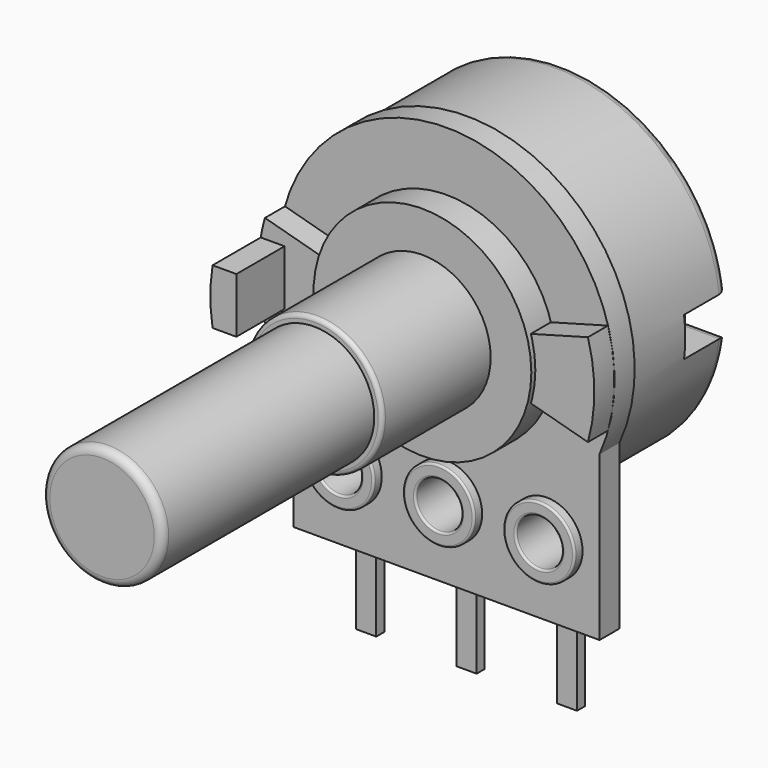
from build123d import *

# Parameters (mm, degrees)
PAD001_DEPTH    = 1.25
SKETCH010_R     = 1.75
POCKET001_DEPTH = 5
SKETCH003_R     = 1.15
PAD002_DEPTH    = 0.5
SKETCH004_R     = 1.775
SKETCH004_R_2   = 1.15
PAD003_DEPTH    = 1.75
FILLET001_R     = 0.1
SKETCH005_R     = 1.15
PAD004_DEPTH    = 0.5
SKETCH006_R     = 1.775
SKETCH006_R_2   = 1.15
PAD005_DEPTH    = 1.75
FILLET002_R     = 0.1
SKETCH007_R     = 1.15
PAD006_DEPTH    = 0.5
SKETCH008_R     = 1.775
SKETCH008_R_2   = 1.15
PAD007_DEPTH    = 1.75
FILLET003_R     = 0.1
SKETCH009_W     = 14
SKETCH009_H     = 2
PAD008_DEPTH    = 3
SKETCH_R        = 8.25
PAD_DEPTH       = 6
POCKET_DEPTH    = 2.7
FILLET_R        = 0.5
SKETCH011_R     = 3.4
PAD009_DEPTH    = 8.25
FILLET004_R     = 0.2
SKETCH012_R     = 3
PAD010_DEPTH    = 13.2
FILLET005_R     = 0.4
SKETCH013_R     = 5.425
PAD011_DEPTH    = 1.5
PAD012_DEPTH    = 1.25
PAD013_DEPTH    = 3


with BuildPart() as pcb:
    # Sketch002 → Pad001 (new body)
    with BuildSketch(Plane.XZ):
        with BuildLine():
            Line((-7.625, -3.464102), (-7.625, -11.625))
            Line((-7.625, -11.625), (7.625, -11.625))
            Line((7.625, -11.625), (7.625, -3.464102))
            ThreePointArc((7.625, -3.464102), (0, 8.375), (-7.625, -3.464102))
        make_face()
    extrude(amount=PAD001_DEPTH)

    # Sketch010 (on Face6 of Pad001) → Pocket001 (cut)
    with BuildSketch(Plane.XZ.offset(1.25)):
        with Locations((-4.995, -7.995)):
            Circle(SKETCH010_R)
        with Locations((0, -7.995)):
            Circle(SKETCH010_R)
        with Locations((4.995, -7.995)):
            Circle(SKETCH010_R)
    extrude(amount=-POCKET001_DEPTH, mode=Mode.SUBTRACT)


with BuildPart() as body002:
    # Sketch003 → Pad002 (new body)
    with BuildSketch(Plane.XZ):
        with BuildLine():
            Line((1.775, 0), (1.775, -4.225))
            Line((1.775, -4.225), (0.5, -3.925))
            Line((0.5, -3.925), (0.5, -7.925))
            Line((0.5, -7.925), (-0.5, -7.925))
            Line((-0.5, -7.925), (-0.5, -3.925))
            Line((-0.5, -3.925), (-1.775, -4.225))
            Line((-1.775, -4.225), (-1.775, 0))
            ThreePointArc((1.775, 0), (0, 1.775), (-1.775, 0))
        make_face()
        Circle(SKETCH003_R, mode=Mode.SUBTRACT)
    extrude(amount=PAD002_DEPTH)

    # Sketch004 (on Face11 of Pad002) → Pad003 (join)
    with BuildSketch(Plane.XZ.offset(0.5)):
        Circle(SKETCH004_R)
        Circle(SKETCH004_R_2, mode=Mode.SUBTRACT)
    extrude(amount=PAD003_DEPTH)

    # Fillet001
    fillet001_edges = [body002.edges().sort_by_distance(p)[0] for p in [
        (-1.775, -2.25, 0),
        (-1.15, -2.25, 0),
    ]]
    fillet(fillet001_edges, radius=FILLET001_R)


with BuildPart() as body002_1:
    # Body002 placement: moved
    add(body002.part.moved(Location((-5, 0.5, -8))))


with BuildPart() as body003:
    # Sketch005 → Pad004 (new body)
    with BuildSketch(Plane.XZ):
        with BuildLine():
            Line((1.775, 0), (1.775, -4.225))
            Line((1.775, -4.225), (0.5, -3.925))
            Line((0.5, -3.925), (0.5, -7.925))
            Line((0.5, -7.925), (-0.5, -7.925))
            Line((-0.5, -7.925), (-0.5, -3.925))
            Line((-0.5, -3.925), (-1.775, -4.225))
            Line((-1.775, -4.225), (-1.775, 0))
            ThreePointArc((1.775, 0), (0, 1.775), (-1.775, 0))
        make_face()
        Circle(SKETCH005_R, mode=Mode.SUBTRACT)
    extrude(amount=PAD004_DEPTH)

    # Sketch006 (on Face11 of Pad004) → Pad005 (join)
    with BuildSketch(Plane.XZ.offset(0.5)):
        Circle(SKETCH006_R)
        Circle(SKETCH006_R_2, mode=Mode.SUBTRACT)
    extrude(amount=PAD005_DEPTH)

    # Fillet002
    fillet002_edges = [body003.edges().sort_by_distance(p)[0] for p in [
        (-1.775, -2.25, 0),
        (-1.15, -2.25, 0),
    ]]
    fillet(fillet002_edges, radius=FILLET002_R)


with BuildPart() as body003_1:
    # Body003 placement: moved
    add(body003.part.moved(Location((0, 0.5, -8))))


with BuildPart() as body004:
    # Sketch007 → Pad006 (new body)
    with BuildSketch(Plane.XZ):
        with BuildLine():
            Line((1.775, 0), (1.775, -4.225))
            Line((1.775, -4.225), (0.5, -3.925))
            Line((0.5, -3.925), (0.5, -7.925))
            Line((0.5, -7.925), (-0.5, -7.925))
            Line((-0.5, -7.925), (-0.5, -3.925))
            Line((-0.5, -3.925), (-1.775, -4.225))
            Line((-1.775, -4.225), (-1.775, 0))
            ThreePointArc((1.775, 0), (0, 1.775), (-1.775, 0))
        make_face()
        Circle(SKETCH007_R, mode=Mode.SUBTRACT)
    extrude(amount=PAD006_DEPTH)

    # Sketch008 (on Face11 of Pad006) → Pad007 (join)
    with BuildSketch(Plane.XZ.offset(0.5)):
        Circle(SKETCH008_R)
        Circle(SKETCH008_R_2, mode=Mode.SUBTRACT)
    extrude(amount=PAD007_DEPTH)

    # Fillet003
    fillet003_edges = [body004.edges().sort_by_distance(p)[0] for p in [
        (-1.775, -2.25, 0),
        (-1.15, -2.25, 0),
    ]]
    fillet(fillet003_edges, radius=FILLET003_R)


with BuildPart() as body004_1:
    # Body004 placement: moved
    add(body004.part.moved(Location((5, 0.5, -8))))


with BuildPart() as hole:
    # Sketch009 → Pad008 (new body)
    with BuildSketch(Plane.XY):
        with Locations((0, 1)):
            Rectangle(SKETCH009_W, SKETCH009_H)
    extrude(amount=PAD008_DEPTH)


with BuildPart() as hole_1:
    # Body005 placement: moved
    add(hole.part.moved(Location((0, 0, -9))))


with BuildPart() as metal_case:
    # Sketch → Pad (new body)
    with BuildSketch(Plane.XZ):
        Circle(SKETCH_R)
    extrude(amount=PAD_DEPTH)

    # Sketch001 (on Face2 of Pad) → Pocket (cut)
    with BuildSketch(Plane(origin=(0, 0, 0), x_dir=(1, 0, 0), z_dir=(0, 1, 0))):
        Polygon((6.35, 0.975), (8.25, 0.975), (8.25, -0.975), (6.35, -0.975), (6.35, 0), align=None)
    extrude(amount=-POCKET_DEPTH, mode=Mode.SUBTRACT)

    # Fillet
    fillet_edges = [metal_case.edges().sort_by_distance(p)[0] for p in [
        (7.271092, 0, 0.975),
        (6.35, 0, 0.4875),
        (6.35, 0, -0.4875),
        (7.271092, 0, -0.975),
        (-8.25, 0, 0),
    ]]
    fillet(fillet_edges, radius=FILLET_R)


with BuildPart() as metal_case_1:
    # Body placement: moved
    add(metal_case.part.moved(Location((0, 6, 0))))

    # Cut: cut Hole
    add(hole_1.part, mode=Mode.SUBTRACT)


with BuildPart() as shaft:
    # Sketch011 → Pad009 (new body)
    with BuildSketch(Plane.XZ):
        Circle(SKETCH011_R)
    extrude(amount=PAD009_DEPTH)

    # Fillet004
    fillet004_edges = [shaft.edges().sort_by_distance(p)[0] for p in [
        (-3.4, -8.25, 0),
    ]]
    fillet(fillet004_edges, radius=FILLET004_R)

    # Sketch012 (on Face4 of Fillet004) → Pad010 (join)
    with BuildSketch(Plane.XZ.offset(8.25)):
        Circle(SKETCH012_R)
    extrude(amount=PAD010_DEPTH)

    # Fillet005
    fillet005_edges = [shaft.edges().sort_by_distance(p)[0] for p in [
        (-3, -21.45, 0),
    ]]
    fillet(fillet005_edges, radius=FILLET005_R)


with BuildPart() as shaft_1:
    # Body006 placement: moved
    add(shaft.part.moved(Location((0, -1.25, 0))))


with BuildPart() as round_stuff:
    # Sketch013 → Pad011 (new body)
    with BuildSketch(Plane.XZ):
        Circle(SKETCH013_R)
    extrude(amount=PAD011_DEPTH)


with BuildPart() as round_stuff_1:
    # Body007 placement: moved
    add(round_stuff.part.moved(Location((0, -1.25, 0))))


with BuildPart() as ears:
    # Sketch014 → Pad012 (new body)
    with BuildSketch(Plane.XZ):
        with BuildLine():
            Line((-8.044601, 2.3), (0, 0.1))
            Line((0, 0.1), (8.044601, 2.3))
            ThreePointArc((8.044601, -2.3), (8.366612, 0), (8.044601, 2.3))
            Line((8.044601, -2.3), (0, -0.1))
            Line((0, -0.1), (-8.044601, -2.3))
            ThreePointArc((-8.044601, 2.3), (-8.366612, 0), (-8.044601, -2.3))
        make_face()
    extrude(amount=PAD012_DEPTH)

    # Sketch015 (on Face8 of Pad012) → Pad013 (join)
    with BuildSketch(Plane.XZ.offset(1.25)):
        with BuildLine():
            Line((-8.252968, 1.375), (-7.066612, 1.375))
            Line((-7.066612, 1.375), (-7.066612, 0))
            Line((-7.066612, -1.375), (-7.066612, 0))
            Line((-7.066612, -1.375), (-8.252968, -1.375))
            ThreePointArc((-8.252968, 1.375), (-8.366612, 0), (-8.252968, -1.375))
        make_face()
    extrude(amount=PAD013_DEPTH)


with BuildPart() as ears_1:
    # Body008 placement: moved
    add(ears.part.moved(Location((0, -1.25, 0))))


solid = Compound([pcb.part, body002_1.part, body003_1.part, body004_1.part, metal_case_1.part, shaft_1.part, round_stuff_1.part, ears_1.part])
